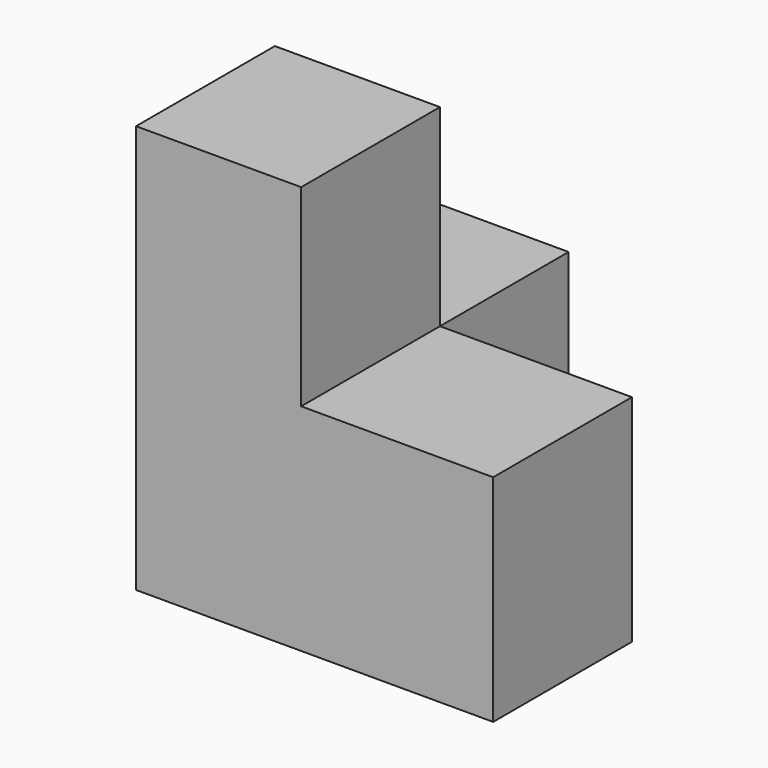
from build123d import *

# Parameters (mm, degrees)
F0_W     = 104.369306
F0_H     = 129.608706
F1_DEPTH = 214.884
F2_W     = 99.349372
F2_H     = 104.369306
F3_DEPTH = 116.078
F4_W     = 99.349372
F4_H     = 129.608706
F5_DEPTH = 96.774
F6_R     = 13.7414
F7_DEPTH = 25.4


with BuildPart() as f1:
    # F0 (on Right) → F1 (new body)
    with BuildSketch(Plane.YZ):
        Rectangle(F0_W, F0_H)
    extrude(amount=F1_DEPTH)

    # F2 (on face) → F3 (join)
    with BuildSketch(Plane.XY.offset(64.804353)):
        with Locations((49.674686, 0)):
            Rectangle(F2_W, F2_H)
    extrude(amount=F3_DEPTH)

    # F4 (on face) → F5 (join)
    with BuildSketch(Plane(origin=(0, 52.184653, 0), x_dir=(-1, 0, 0), z_dir=(0, 1, 0))):
        with Locations((-49.674686, 0)):
            Rectangle(F4_W, F4_H)
    extrude(amount=F5_DEPTH)

    # F6 (on face) → F7 (cut)
    with BuildSketch(Plane(origin=(0, 0, -64.804353), x_dir=(1, 0, 0), z_dir=(0, 0, -1))):
        with Locations((19.05245, 32.441348)):
            Circle(F6_R)
    extrude(amount=-F7_DEPTH, mode=Mode.SUBTRACT)


solid = f1.part
